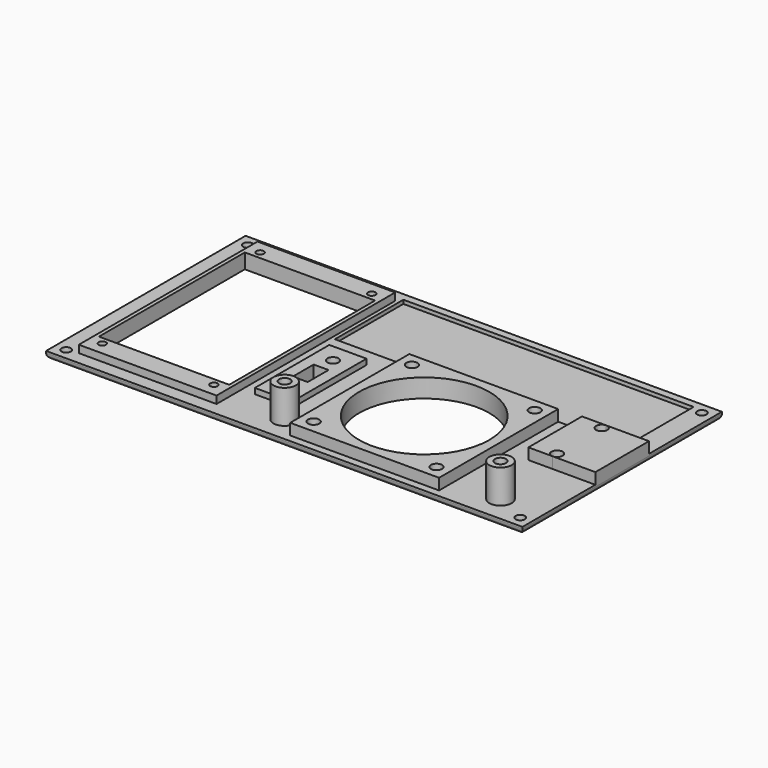
from build123d import *

# Parameters (mm, degrees)
BOX_W             = 128
BOX_H             = 67
BOX_DEPTH         = 2
BOX001_W          = 37
BOX001_H          = 60
BOX001_DEPTH      = 2
BOX002_W          = 35
BOX002_H          = 49
BOX002_DEPTH      = 4
BOX003_W          = 78
BOX003_H          = 23
BOX003_DEPTH      = 1
BOX004_W          = 40
BOX004_H          = 40
BOX004_DEPTH      = 3
CYLINDER_R        = 17.5
CYLINDER_DEPTH    = 5
CYLINDER001_R     = 1.5
CYLINDER001_DEPTH = 3
CYLINDER002_R     = 1.5
CYLINDER002_DEPTH = 3
CYLINDER003_R     = 1.5
CYLINDER003_DEPTH = 3
CYLINDER004_R     = 1.5
CYLINDER004_DEPTH = 3
BOX005_W          = 18
BOX005_H          = 18
BOX005_DEPTH      = 3
CYLINDER005_R     = 1.5
CYLINDER005_DEPTH = 3
CYLINDER006_R     = 1.5
CYLINDER006_DEPTH = 3
CYLINDER007_R     = 3
CYLINDER007_DEPTH = 9
CYLINDER008_R     = 1.5
CYLINDER008_DEPTH = 5
CYLINDER009_R     = 3
CYLINDER009_DEPTH = 9
CYLINDER010_R     = 1.5
CYLINDER010_DEPTH = 5
BOX006_W          = 10
BOX006_H          = 25
BOX006_DEPTH      = 1.5
BOX007_W          = 4
BOX007_H          = 7
BOX007_DEPTH      = 6
CYLINDER011_R     = 1.5
CYLINDER011_DEPTH = 2.5
CYLINDER012_R     = 1.5
CYLINDER012_DEPTH = 2.5
CYLINDER013_R     = 1
CYLINDER013_DEPTH = 2
CYLINDER014_R     = 1
CYLINDER014_DEPTH = 2
CYLINDER015_R     = 1
CYLINDER015_DEPTH = 2
CYLINDER016_R     = 1
CYLINDER016_DEPTH = 2
CYLINDER017_R     = 1.25
CYLINDER017_DEPTH = 2
CYLINDER018_R     = 1.25
CYLINDER018_DEPTH = 2
CYLINDER019_R     = 1.25
CYLINDER019_DEPTH = 2
CYLINDER020_R     = 1.25
CYLINDER020_DEPTH = 2
FILLET_R          = 1.5


with BuildPart() as part:
    # Box → Box (join)
    with BuildSketch(Plane.XY):
        with Locations((64, 33.5)):
            Rectangle(BOX_W, BOX_H)
    extrude(amount=BOX_DEPTH)

    # Box001 → Box001 (join)
    with BuildSketch(Plane(origin=(6, 3.5, 2), x_dir=(1, 0, 0), z_dir=(0, 0, 1))):
        with Locations((18.5, 30)):
            Rectangle(BOX001_W, BOX001_H)
    extrude(amount=BOX001_DEPTH)

    # Box002 → Box002 (cut)
    with BuildSketch(Plane(origin=(7, 9, 0), x_dir=(1, 0, 0), z_dir=(0, 0, 1))):
        with Locations((17.5, 24.5)):
            Rectangle(BOX002_W, BOX002_H)
    extrude(amount=BOX002_DEPTH, mode=Mode.SUBTRACT)

    # Box003 → Box003 (cut)
    with BuildSketch(Plane(origin=(44, 42, 1), x_dir=(1, 0, 0), z_dir=(0, 0, 1))):
        with Locations((39, 11.5)):
            Rectangle(BOX003_W, BOX003_H)
    extrude(amount=BOX003_DEPTH, mode=Mode.SUBTRACT)

    # Box004 → Box004 (join)
    with BuildSketch(Plane(origin=(64, 2, 2), x_dir=(1, 0, 0), z_dir=(0, 0, 1))):
        with Locations((20, 20)):
            Rectangle(BOX004_W, BOX004_H)
    extrude(amount=BOX004_DEPTH)

    # Cylinder → Cylinder (cut)
    with BuildSketch(Plane(origin=(84, 22, 0), x_dir=(1, 0, 0), z_dir=(0, 0, 1))):
        Circle(CYLINDER_R)
    extrude(amount=CYLINDER_DEPTH, mode=Mode.SUBTRACT)

    # Cylinder001 → Cylinder001 (cut)
    with BuildSketch(Plane(origin=(67.5, 5.5, 2), x_dir=(1, 0, 0), z_dir=(0, 0, 1))):
        Circle(CYLINDER001_R)
    extrude(amount=CYLINDER001_DEPTH, mode=Mode.SUBTRACT)

    # Cylinder002 → Cylinder002 (cut)
    with BuildSketch(Plane(origin=(67.5, 38.5, 2), x_dir=(1, 0, 0), z_dir=(0, 0, 1))):
        Circle(CYLINDER002_R)
    extrude(amount=CYLINDER002_DEPTH, mode=Mode.SUBTRACT)

    # Cylinder003 → Cylinder003 (cut)
    with BuildSketch(Plane(origin=(100.5, 38.5, 2), x_dir=(1, 0, 0), z_dir=(0, 0, 1))):
        Circle(CYLINDER003_R)
    extrude(amount=CYLINDER003_DEPTH, mode=Mode.SUBTRACT)

    # Cylinder004 → Cylinder004 (cut)
    with BuildSketch(Plane(origin=(100.5, 5.5, 2), x_dir=(1, 0, 0), z_dir=(0, 0, 1))):
        Circle(CYLINDER004_R)
    extrude(amount=CYLINDER004_DEPTH, mode=Mode.SUBTRACT)

    # Box005 → Box005 (join)
    with BuildSketch(Plane(origin=(110, 24.5, 2), x_dir=(1, 0, 0), z_dir=(0, 0, 1))):
        with Locations((9, 9)):
            Rectangle(BOX005_W, BOX005_H)
    extrude(amount=BOX005_DEPTH)

    # Cylinder005 → Cylinder005 (cut)
    with BuildSketch(Plane(origin=(116.5, 26, 2), x_dir=(1, 0, 0), z_dir=(0, 0, 1))):
        Circle(CYLINDER005_R)
    extrude(amount=CYLINDER005_DEPTH, mode=Mode.SUBTRACT)

    # Cylinder006 → Cylinder006 (cut)
    with BuildSketch(Plane(origin=(116.5, 41, 2), x_dir=(1, 0, 0), z_dir=(0, 0, 1))):
        Circle(CYLINDER006_R)
    extrude(amount=CYLINDER006_DEPTH, mode=Mode.SUBTRACT)

    # Cylinder007 → Cylinder007 (join)
    with BuildSketch(Plane(origin=(116.5, 7, 2), x_dir=(1, 0, 0), z_dir=(0, 0, 1))):
        Circle(CYLINDER007_R)
    extrude(amount=CYLINDER007_DEPTH)

    # Cylinder008 → Cylinder008 (cut)
    with BuildSketch(Plane(origin=(116.5, 7, 6), x_dir=(1, 0, 0), z_dir=(0, 0, 1))):
        Circle(CYLINDER008_R)
    extrude(amount=CYLINDER008_DEPTH, mode=Mode.SUBTRACT)

    # Cylinder009 → Cylinder009 (join)
    with BuildSketch(Plane(origin=(58.5, 7, 2), x_dir=(1, 0, 0), z_dir=(0, 0, 1))):
        Circle(CYLINDER009_R)
    extrude(amount=CYLINDER009_DEPTH)

    # Cylinder010 → Cylinder010 (cut)
    with BuildSketch(Plane(origin=(58.5, 7, 6), x_dir=(1, 0, 0), z_dir=(0, 0, 1))):
        Circle(CYLINDER010_R)
    extrude(amount=CYLINDER010_DEPTH, mode=Mode.SUBTRACT)

    # Box006 → Box006 (join)
    with BuildSketch(Plane(origin=(46.5, 12, 2), x_dir=(1, 0, 0), z_dir=(0, 0, 1))):
        with Locations((5, 12.5)):
            Rectangle(BOX006_W, BOX006_H)
    extrude(amount=BOX006_DEPTH)

    # Box007 → Box007 (cut)
    with BuildSketch(Plane(origin=(49.5, 21, -1.5), x_dir=(1, 0, 0), z_dir=(0, 0, 1))):
        with Locations((2, 3.5)):
            Rectangle(BOX007_W, BOX007_H)
    extrude(amount=BOX007_DEPTH, mode=Mode.SUBTRACT)

    # Cylinder011 → Cylinder011 (cut)
    with BuildSketch(Plane(origin=(51.5, 18, 1), x_dir=(1, 0, 0), z_dir=(0, 0, 1))):
        Circle(CYLINDER011_R)
    extrude(amount=CYLINDER011_DEPTH, mode=Mode.SUBTRACT)

    # Cylinder012 → Cylinder012 (cut)
    with BuildSketch(Plane(origin=(51.5, 32, 1), x_dir=(1, 0, 0), z_dir=(0, 0, 1))):
        Circle(CYLINDER012_R)
    extrude(amount=CYLINDER012_DEPTH, mode=Mode.SUBTRACT)

    # Cylinder013 → Cylinder013 (cut)
    with BuildSketch(Plane(origin=(9.5, 7, 2), x_dir=(1, 0, 0), z_dir=(0, 0, 1))):
        Circle(CYLINDER013_R)
    extrude(amount=CYLINDER013_DEPTH, mode=Mode.SUBTRACT)

    # Cylinder014 → Cylinder014 (cut)
    with BuildSketch(Plane(origin=(9.5, 60, 2), x_dir=(1, 0, 0), z_dir=(0, 0, 1))):
        Circle(CYLINDER014_R)
    extrude(amount=CYLINDER014_DEPTH, mode=Mode.SUBTRACT)

    # Cylinder015 → Cylinder015 (cut)
    with BuildSketch(Plane(origin=(39.5, 60, 2), x_dir=(1, 0, 0), z_dir=(0, 0, 1))):
        Circle(CYLINDER015_R)
    extrude(amount=CYLINDER015_DEPTH, mode=Mode.SUBTRACT)

    # Cylinder016 → Cylinder016 (cut)
    with BuildSketch(Plane(origin=(39.5, 7, 2), x_dir=(1, 0, 0), z_dir=(0, 0, 1))):
        Circle(CYLINDER016_R)
    extrude(amount=CYLINDER016_DEPTH, mode=Mode.SUBTRACT)

    # Cylinder017 → Cylinder017 (cut)
    with BuildSketch(Plane(origin=(3, 3, 0), x_dir=(1, 0, 0), z_dir=(0, 0, 1))):
        Circle(CYLINDER017_R)
    extrude(amount=CYLINDER017_DEPTH, mode=Mode.SUBTRACT)

    # Cylinder018 → Cylinder018 (cut)
    with BuildSketch(Plane(origin=(3, 64, 0), x_dir=(1, 0, 0), z_dir=(0, 0, 1))):
        Circle(CYLINDER018_R)
    extrude(amount=CYLINDER018_DEPTH, mode=Mode.SUBTRACT)

    # Cylinder019 → Cylinder019 (cut)
    with BuildSketch(Plane(origin=(125, 64, 0), x_dir=(1, 0, 0), z_dir=(0, 0, 1))):
        Circle(CYLINDER019_R)
    extrude(amount=CYLINDER019_DEPTH, mode=Mode.SUBTRACT)

    # Cylinder020 → Cylinder020 (cut)
    with BuildSketch(Plane(origin=(125, 3, 0), x_dir=(1, 0, 0), z_dir=(0, 0, 1))):
        Circle(CYLINDER020_R)
    extrude(amount=CYLINDER020_DEPTH, mode=Mode.SUBTRACT)

    # Fillet
    fillet_edges = [part.edges().sort_by_distance(p)[0] for p in [
        (64, 0, 0),
        (0, 33.5, 0),
        (64, 67, 0),
        (128, 33.5, 0),
    ]]
    fillet(fillet_edges, radius=FILLET_R)


solid = part.part
